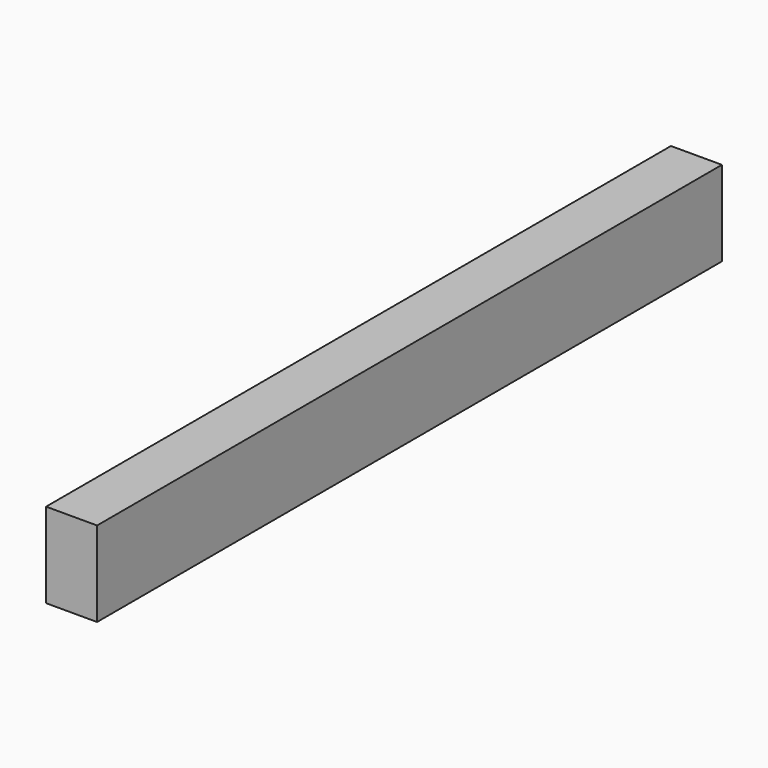
from build123d import *

# Parameters (mm, degrees)
SKETCH_W  = 60
SKETCH_H  = 100
PAD_DEPTH = 459.5


with BuildPart() as part:
    # Sketch → Pad (new body, symmetric)
    with BuildSketch(Plane.XZ):
        Rectangle(SKETCH_W, SKETCH_H)
    extrude(amount=PAD_DEPTH, both=True)


solid = part.part
